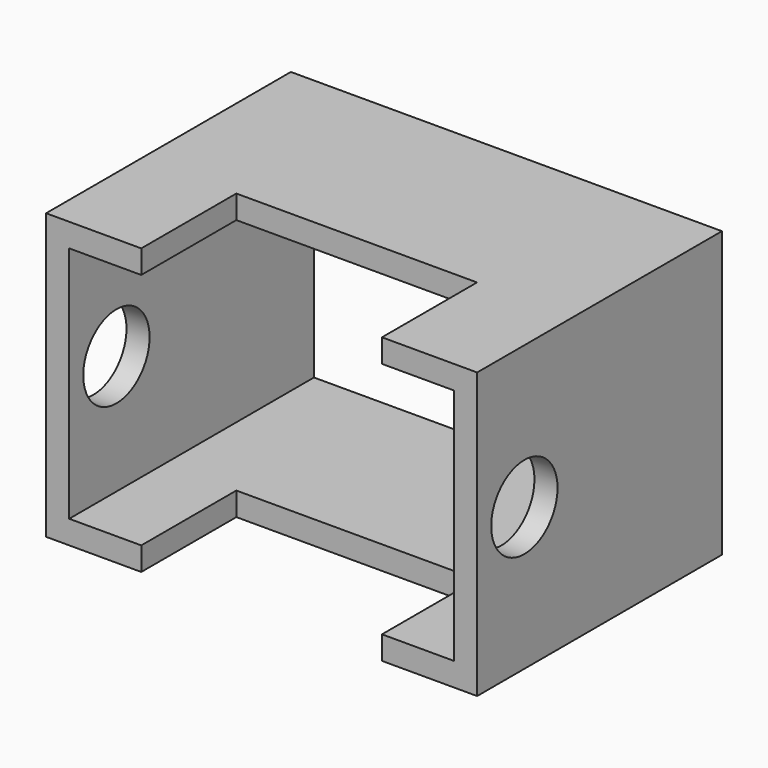
from build123d import *

# Parameters (mm, degrees)
F0_W     = 143.145382
F0_H     = 94.600484
F1_DEPTH = 101.6
F2_W     = 127.800316
F2_H     = 79.051822
F3_DEPTH = 127
F4_W     = 79.930096
F4_H     = 39.45935
F5_DEPTH = 127
F6_R     = 13.766845
F7_DEPTH = 152.4


with BuildPart() as f1:
    # F0 (on Front) → F1 (new body)
    with BuildSketch(Plane.XZ):
        Rectangle(F0_W, F0_H)
    extrude(amount=F1_DEPTH)

    # F2 (on face) → F3 (cut)
    with BuildSketch(Plane.XZ.offset(101.6)):
        Rectangle(F2_W, F2_H)
    extrude(amount=-F3_DEPTH, mode=Mode.SUBTRACT)

    # F4 (on face) → F5 (cut)
    with BuildSketch(Plane(origin=(0, 0, -47.300242), x_dir=(1, 0, 0), z_dir=(0, 0, -1))):
        with Locations((0, 81.870325)):
            Rectangle(F4_W, F4_H)
    extrude(amount=-F5_DEPTH, mode=Mode.SUBTRACT)

    # F6 (on face) → F7 (cut)
    with BuildSketch(Plane.YZ.offset(71.572691)):
        with Locations((-81.998244, 0)):
            Circle(F6_R)
    extrude(amount=-F7_DEPTH, mode=Mode.SUBTRACT)


solid = f1.part
